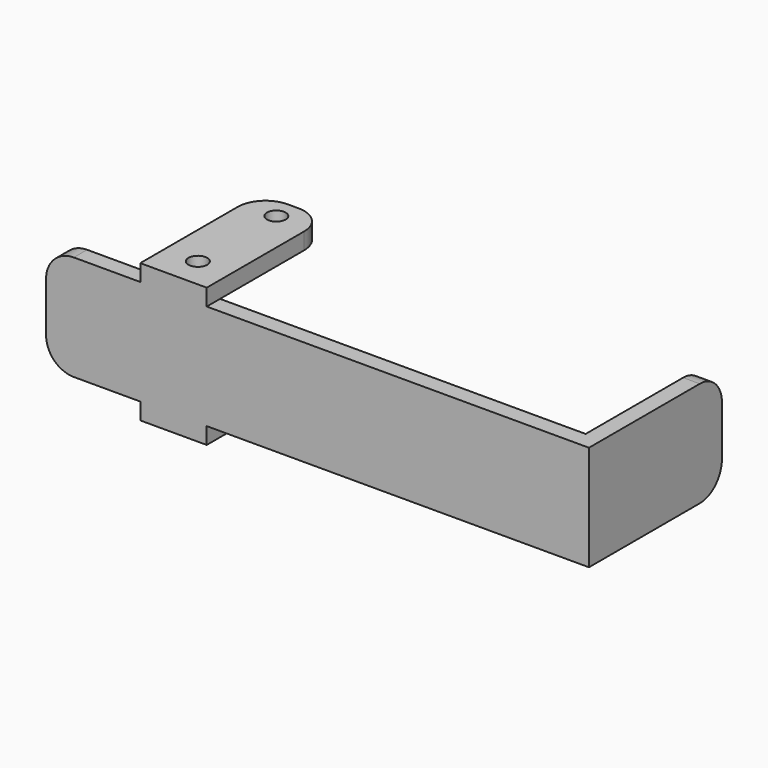
from build123d import *

# Parameters (mm, degrees)
CYLINDER001_R     = 1.7
CYLINDER001_DEPTH = 31
CYLINDER_R        = 1.7
CYLINDER_DEPTH    = 31
BOX003_W          = 3
BOX003_H          = 30
BOX003_DEPTH      = 19
BOX001_W          = 12
BOX001_H          = 27
BOX001_DEPTH      = 3
BOX002_W          = 12
BOX002_H          = 27
BOX002_DEPTH      = 3
BOX_W             = 95
BOX_H             = 3
BOX_DEPTH         = 19
FILLET_R          = 5


with BuildPart() as cylinder001:
    # Cylinder001 → Cylinder001 (new body)
    with BuildSketch(Plane(origin=(6, 23.2, -6), x_dir=(1, 0, 0), z_dir=(0, 0, 1))):
        Circle(CYLINDER001_R)
    extrude(amount=CYLINDER001_DEPTH)


with BuildPart() as obj1:
    # Cylinder → Cylinder (new body)
    with BuildSketch(Plane(origin=(6, 5.5, -6), x_dir=(1, 0, 0), z_dir=(0, 0, 1))):
        Circle(CYLINDER_R)
    extrude(amount=CYLINDER_DEPTH)

    # Fusion001: union Cylinder001
    add(cylinder001.part)


with BuildPart() as cube003:
    # Box003 → Box003 (new body)
    with BuildSketch(Plane(origin=(78, 0, 0), x_dir=(1, 0, 0), z_dir=(0, 0, 1))):
        with Locations((1.5, 15)):
            Rectangle(BOX003_W, BOX003_H)
    extrude(amount=BOX003_DEPTH)


with BuildPart() as cube001:
    # Box001 → Box001 (new body)
    with BuildSketch(Plane.XY.offset(-3)):
        with Locations((6, 13.5)):
            Rectangle(BOX001_W, BOX001_H)
    extrude(amount=BOX001_DEPTH)


with BuildPart() as cube002:
    # Box002 → Box002 (new body)
    with BuildSketch(Plane.XY.offset(19)):
        with Locations((6, 13.5)):
            Rectangle(BOX002_W, BOX002_H)
    extrude(amount=BOX002_DEPTH)


with BuildPart() as cut:
    # Box → Box (new body)
    with BuildSketch(Plane(origin=(-17, 0, 0), x_dir=(1, 0, 0), z_dir=(0, 0, 1))):
        with Locations((47.5, 1.5)):
            Rectangle(BOX_W, BOX_H)
    extrude(amount=BOX_DEPTH)

    # Fusion: union Cube003, Cube001, Cube002
    add(cube003.part)
    add(cube001.part)
    add(cube002.part)

    # Fillet
    fillet_edges = [cut.edges().sort_by_distance(p)[0] for p in [
        (79.5, 30, 0),
        (79.5, 30, 19),
        (0, 27, 20.5),
        (12, 27, 20.5),
        (-17, 1.5, 19),
        (-17, 1.5, 0),
        (0, 27, -1.5),
        (12, 27, -1.5),
    ]]
    fillet(fillet_edges, radius=FILLET_R)

    # Cut: cut obj1
    add(obj1.part, mode=Mode.SUBTRACT)


solid = cut.part
